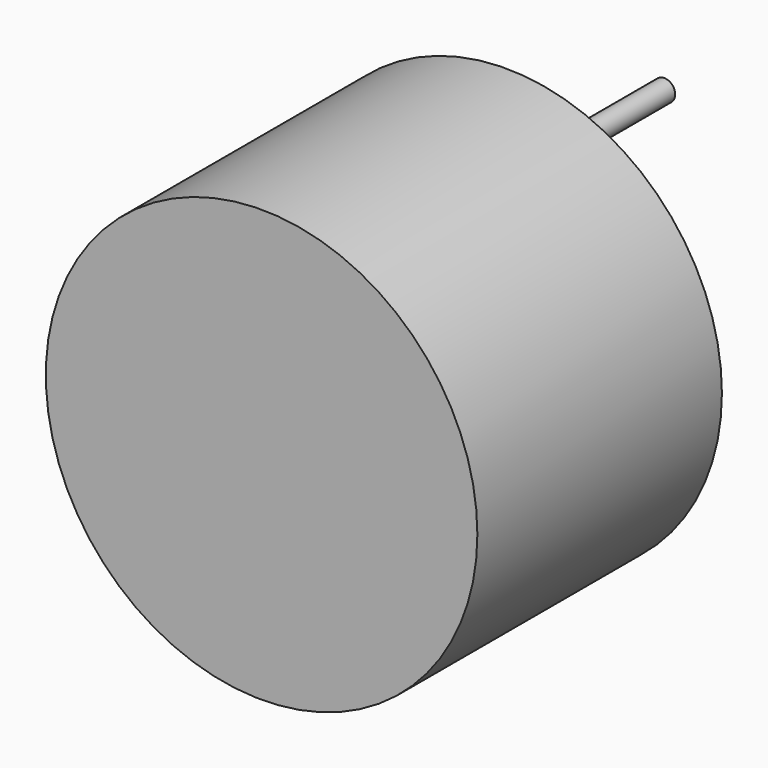
from build123d import *

# Parameters (mm, degrees)
F0_R     = 6
F1_DEPTH = 8.5
F2_R     = 0.3
F3_DEPTH = 5.5


with BuildPart() as f1:
    # F0 (on Front) → F1 (new body)
    with BuildSketch(Plane.XZ):
        Circle(F0_R)
    extrude(amount=F1_DEPTH)

    # F2 (on face) → F3 (join)
    with BuildSketch(Plane(origin=(0, 0, 0), x_dir=(-1, 0, 0), z_dir=(0, 1, 0))):
        with Locations((0, 3.22822)):
            Circle(F2_R)
        with Locations((0, -3.22822)):
            Circle(F2_R)
    extrude(amount=F3_DEPTH)


solid = f1.part
